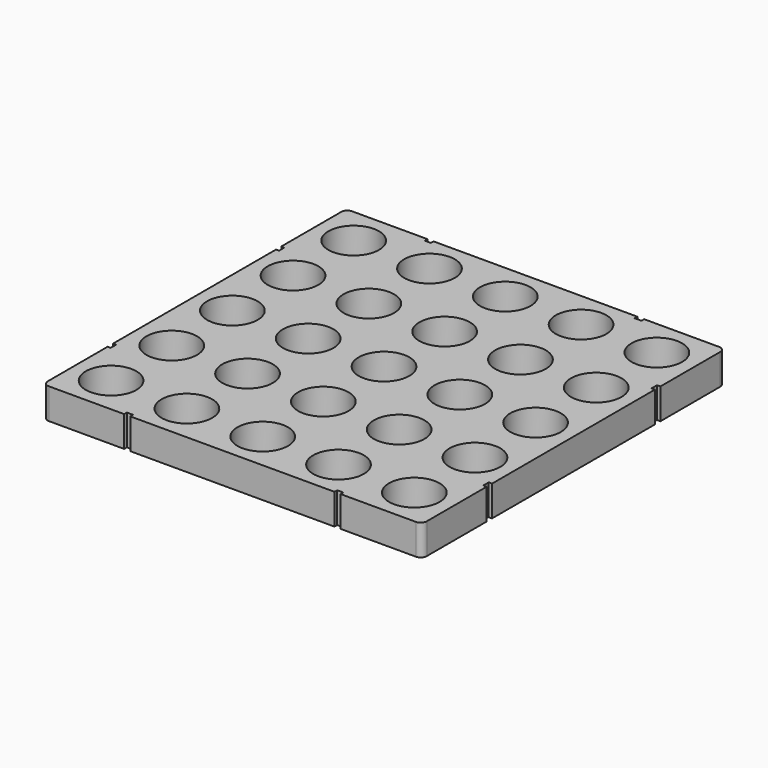
from build123d import *

# Parameters (mm, degrees)
F0_R     = 8.25
F2_DEPTH = 10
F1_W     = 2
F1_H     = 2.2
F1_W_2   = 2.2
F3_DEPTH = 10


with BuildPart() as f2:
    # F0 (on Top) → F2 (new body)
    with BuildSketch(Plane.XY):
        with BuildLine():
            ThreePointArc((61.8, 59.8), (61.214214, 61.214214), (59.8, 61.8))
            Line((59.8, 61.8), (-59.8, 61.8))
            ThreePointArc((-59.8, 61.8), (-61.214214, 61.214214), (-61.8, 59.8))
            Line((-61.8, 59.8), (-61.8, -59.8))
            ThreePointArc((-61.8, -59.8), (-61.214214, -61.214214), (-59.8, -61.8))
            Line((-59.8, -61.8), (59.8, -61.8))
            ThreePointArc((59.8, -61.8), (61.214214, -61.214214), (61.8, -59.8))
            Line((61.8, -59.8), (61.8, 59.8))
        make_face()
        with Locations((-49.44, -49.44)):
            Circle(F0_R, mode=Mode.SUBTRACT)
        with Locations((-24.72, -49.44)):
            Circle(F0_R, mode=Mode.SUBTRACT)
        with Locations((-49.44, -24.72)):
            Circle(F0_R, mode=Mode.SUBTRACT)
        with Locations((-24.72, -24.72)):
            Circle(F0_R, mode=Mode.SUBTRACT)
        with Locations((0, -49.44)):
            Circle(F0_R, mode=Mode.SUBTRACT)
        with Locations((24.72, -49.44)):
            Circle(F0_R, mode=Mode.SUBTRACT)
        with Locations((49.44, -49.44)):
            Circle(F0_R, mode=Mode.SUBTRACT)
        with Locations((0, -24.72)):
            Circle(F0_R, mode=Mode.SUBTRACT)
        with Locations((24.72, -24.72)):
            Circle(F0_R, mode=Mode.SUBTRACT)
        with Locations((49.44, -24.72)):
            Circle(F0_R, mode=Mode.SUBTRACT)
        with Locations((-49.44, 0)):
            Circle(F0_R, mode=Mode.SUBTRACT)
        with Locations((-49.44, 24.72)):
            Circle(F0_R, mode=Mode.SUBTRACT)
        with Locations((-24.72, 0)):
            Circle(F0_R, mode=Mode.SUBTRACT)
        with Locations((-24.72, 24.72)):
            Circle(F0_R, mode=Mode.SUBTRACT)
        with Locations((-49.44, 49.44)):
            Circle(F0_R, mode=Mode.SUBTRACT)
        with Locations((-24.72, 49.44)):
            Circle(F0_R, mode=Mode.SUBTRACT)
        Circle(F0_R, mode=Mode.SUBTRACT)
        with Locations((24.72, 0)):
            Circle(F0_R, mode=Mode.SUBTRACT)
        with Locations((0, 24.72)):
            Circle(F0_R, mode=Mode.SUBTRACT)
        with Locations((24.72, 24.72)):
            Circle(F0_R, mode=Mode.SUBTRACT)
        with Locations((49.44, 0)):
            Circle(F0_R, mode=Mode.SUBTRACT)
        with Locations((49.44, 24.72)):
            Circle(F0_R, mode=Mode.SUBTRACT)
        with Locations((0, 49.44)):
            Circle(F0_R, mode=Mode.SUBTRACT)
        with Locations((24.72, 49.44)):
            Circle(F0_R, mode=Mode.SUBTRACT)
        with Locations((49.44, 49.44)):
            Circle(F0_R, mode=Mode.SUBTRACT)
    extrude(amount=F2_DEPTH)

    # F1 (on Top) → F3 (cut)
    with BuildSketch(Plane.XY):
        with Locations((-34.3, 61.8)):
            Rectangle(F1_W, F1_H)
        with Locations((34.3, 61.8)):
            Rectangle(F1_W_2, F1_H)
        with Locations((61.8, 34.3)):
            Rectangle(F1_W_2, F1_H)
        with Locations((61.8, -34.3)):
            Rectangle(F1_W_2, F1_H)
        with Locations((34.3, -61.8)):
            Rectangle(F1_W, F1_H)
        with Locations((-34.3, -61.8)):
            Rectangle(F1_W, F1_H)
        with Locations((-61.8, -34.3)):
            Rectangle(F1_W, F1_H)
        with Locations((-61.8, 34.3)):
            Rectangle(F1_W, F1_H)
    extrude(amount=F3_DEPTH, mode=Mode.SUBTRACT)


solid = f2.part
